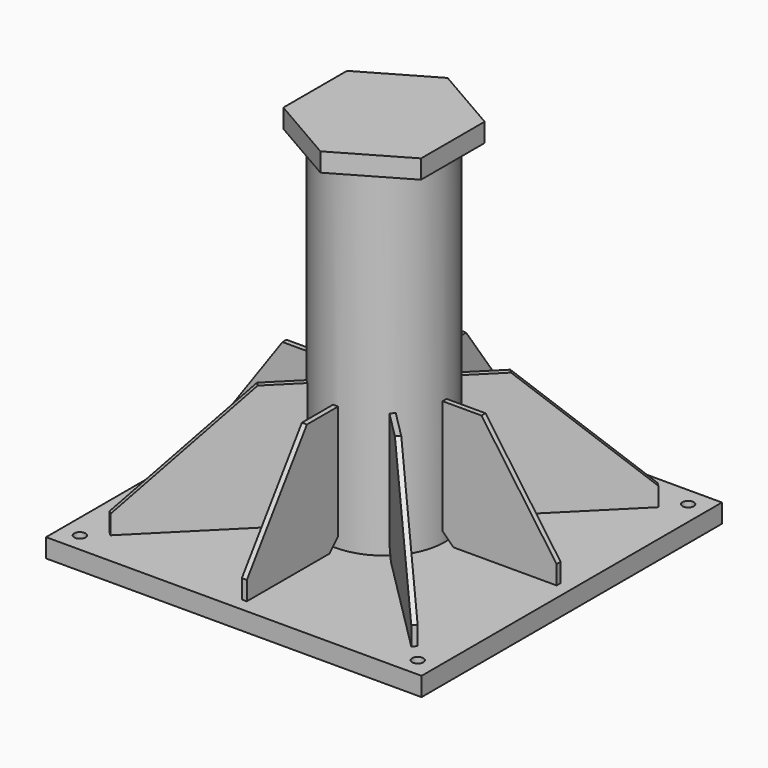
from build123d import *

# Parameters (mm, degrees)
EXTRUDE004_DEPTH         = 30
SKETCH001_R              = 96.85
SKETCH001_R_2            = 86.85
EXTRUDE001_DEPTH         = 540
EXTRUDE002_DEPTH         = 4
ARRAY_COUNT              = 4
EXTRUDE003_DEPTH         = 4
ARRAY001_COUNT           = 4
ARRAY001_PLACEMENT_ANGLE = 45
SKETCH_W                 = 600
SKETCH_H                 = 600
SKETCH_R                 = 9
EXTRUDE_DEPTH            = 30


with BuildPart() as lastplatte:
    # Sketch004 (on Face51 of Fusion) → Extrude004 (new body)
    with BuildSketch(Plane.XY.offset(570)):
        Polygon((110, 63.50853), (0, 127.017059), (-110, 63.50853), (-110, -63.50853), (0, -127.017059), (110, -63.50853), align=None)
    extrude(amount=EXTRUDE004_DEPTH)


with BuildPart() as rohr:
    # Sketch001 (on Face10 of Extrude) → Extrude001 (new body)
    with BuildSketch(Plane.XY.offset(30)):
        Circle(SKETCH001_R)
        Circle(SKETCH001_R_2, mode=Mode.SUBTRACT)
    extrude(amount=EXTRUDE001_DEPTH)


with BuildPart() as obj1:
    # Sketch002 → Extrude002 (new body, symmetric)
    with BuildSketch(Plane.XZ):
        Polygon((114, 30), (94, 50), (94, 230), (159, 230), (279, 60), (279, 30), align=None)
    extrude(amount=EXTRUDE002_DEPTH, both=True)

    # Array: obj1 ×4 about axis
    array_axis = Axis((0, 0, 0), (0, 0, 1))


with BuildPart() as obj1_1:
    add(obj1.part)
    for i in range(1, ARRAY_COUNT):
        add(obj1.part.rotate(array_axis, i * 360 / ARRAY_COUNT))


with BuildPart() as obj2:
    # Sketch003 → Extrude003 (new body, symmetric)
    with BuildSketch(Plane.XZ):
        Polygon((114, 30), (94, 50), (94, 230), (159, 230), (344, 60), (344, 30), align=None)
    extrude(amount=EXTRUDE003_DEPTH, both=True)

    # Array001: obj2 ×4 about axis
    array001_axis = Axis((0, 0, 0), (0, 0, 1))


with BuildPart() as obj2_1:
    add(obj2.part)
    for i in range(1, ARRAY001_COUNT):
        add(obj2.part.rotate(array001_axis, i * 360 / ARRAY001_COUNT))


with BuildPart() as obj2_2:
    # Array001 placement: moved
    add(obj2_1.part.rotate(Axis((0, 0, 0), (0, 0, 1)), ARRAY001_PLACEMENT_ANGLE))


with BuildPart() as fusion001:
    # Sketch → Extrude (new body)
    with BuildSketch(Plane.XY):
        Rectangle(SKETCH_W, SKETCH_H)
        with Locations((270, -270)):
            Circle(SKETCH_R, mode=Mode.SUBTRACT)
        with Locations((-270, -270)):
            Circle(SKETCH_R, mode=Mode.SUBTRACT)
        with Locations((270, 270)):
            Circle(SKETCH_R, mode=Mode.SUBTRACT)
        with Locations((-270, 270)):
            Circle(SKETCH_R, mode=Mode.SUBTRACT)
    extrude(amount=EXTRUDE_DEPTH)

    # Fusion: union rohr, obj1, obj2
    add(rohr.part)
    add(obj1_1.part)
    add(obj2_2.part)

    # Fusion001: union lastplatte
    add(lastplatte.part)


solid = fusion001.part
